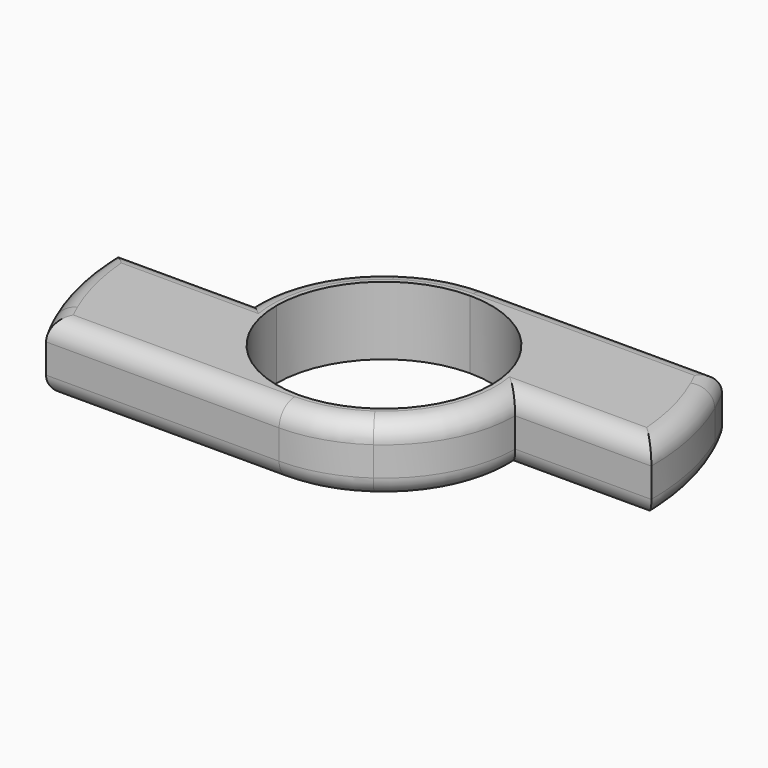
from build123d import *

# Parameters (mm, degrees)
F1_DEPTH = 7
F2_R     = 2


with BuildPart() as f1:
    # F0 (on Top) → F1 (new body)
    with BuildSketch(Plane.XY):
        with BuildLine():
            ThreePointArc((-11, 0), (-7.7781745931, 7.7781745931), (0, 11))
            Line((0, 11), (-7.7157273072, 11))
            ThreePointArc((-7.7157273072, 11), (-11.9206288377, 6.1992786672), (-13.4362363733, 0))
            Line((-13.4362363733, 0), (-11, 0))
        make_face()
        with BuildLine():
            ThreePointArc((0, 11), (7.7781745931, 7.7781745931), (11, 0))
            Line((11, 0), (13.4362363733, 0))
            ThreePointArc((13.4362363733, 0), (11.9206288377, 6.1992786672), (7.7157273072, 11))
            Line((7.7157273072, 11), (0, 11))
        make_face()
        with BuildLine():
            Line((13.4362363733, 0), (11, 0))
            ThreePointArc((11, 0), (7.7781745931, -7.7781745931), (0, -11))
            Line((0, -11), (7.7157273072, -11))
            ThreePointArc((7.7157273072, -11), (11.9206288377, -6.1992786672), (13.4362363733, 0))
        make_face()
        with BuildLine():
            Line((7.7157273072, -11), (0, -11))
            Line((0, -11), (0, -13.4362363733))
            ThreePointArc((0, -13.4362363733), (4.0456055031, -12.8127094712), (7.7157273072, -11))
        make_face()
        with BuildLine():
            Line((0, -13.4362363733), (0, -11))
            Line((0, -11), (-7.7157273072, -11))
            ThreePointArc((-7.7157273072, -11), (-4.0456055031, -12.8127094712), (0, -13.4362363733))
        make_face()
        with BuildLine():
            Line((-7.7157273072, -11), (0, -11))
            ThreePointArc((0, -11), (-7.7781745931, -7.7781745931), (-11, 0))
            Line((-11, 0), (-13.4362363733, 0))
            ThreePointArc((-13.4362363733, 0), (-11.9206288377, -6.1992786672), (-7.7157273072, -11))
        make_face()
        with BuildLine():
            Line((-25.0909402017, -11), (-7.7157273072, -11))
            ThreePointArc((-7.7157273072, -11), (-11.9206288377, -6.1992786672), (-13.4362363733, 0))
            Line((-13.4362363733, 0), (-27.3962639826, 0))
            ThreePointArc((-27.3962639826, 0), (-26.8137399624, -5.619486581), (-25.0909402017, -11))
        make_face()
        with BuildLine():
            ThreePointArc((7.7157273072, 11), (11.9206288377, 6.1992786672), (13.4362363733, 0))
            Line((13.4362363733, 0), (27.3962639826, 0))
            ThreePointArc((27.3962639826, 0), (26.8137399624, 5.619486581), (25.0909402017, 11))
            Line((25.0909402017, 11), (7.7157273072, 11))
        make_face()
        with BuildLine():
            Line((0, 13.4362363733), (0, 11))
            Line((0, 11), (7.7157273072, 11))
            ThreePointArc((7.7157273072, 11), (4.0456055031, 12.8127094712), (0, 13.4362363733))
        make_face()
        with BuildLine():
            Line((-7.7157273072, 11), (0, 11))
            Line((0, 11), (0, 13.4362363733))
            ThreePointArc((0, 13.4362363733), (-4.0456055031, 12.8127094712), (-7.7157273072, 11))
        make_face()
        with BuildLine():
            Line((-23.8751509383, -13.4362363733), (0, -13.4362363733))
            ThreePointArc((0, -13.4362363733), (-4.0456055031, -12.8127094712), (-7.7157273072, -11))
            Line((-7.7157273072, -11), (-25.0909402017, -11))
            ThreePointArc((-25.0909402017, -11), (-24.5133296861, -12.2332312946), (-23.8751509383, -13.4362363733))
        make_face()
        with BuildLine():
            Line((23.8751509383, 13.4362363733), (0, 13.4362363733))
            ThreePointArc((0, 13.4362363733), (4.0456055031, 12.8127094712), (7.7157273072, 11))
            Line((7.7157273072, 11), (25.0909402017, 11))
            ThreePointArc((25.0909402017, 11), (24.5133296861, 12.2332312946), (23.8751509383, 13.4362363733))
        make_face()
    extrude(amount=F1_DEPTH)

    # F2
    f2_edges = [f1.edges().sort_by_distance(p)[0] for p in [
        (-9.500854, 9.500854, 7),
        (9.500854, -9.500854, 7),
        (-11.937575, -13.436236, 0),
        (-26.50137, -6.944975, 0),
        (11.937575, 13.436236, 0),
        (26.50137, 6.944975, 0),
        (20.41625, 0, 0),
        (-20.41625, 0, 0),
        (26.50137, 6.944975, 7),
        (-26.50137, -6.944975, 7),
        (20.41625, 0, 7),
        (-20.41625, 0, 7),
        (11.937575, 13.436236, 7),
    ]]
    fillet(f2_edges, radius=F2_R)


solid = f1.part
